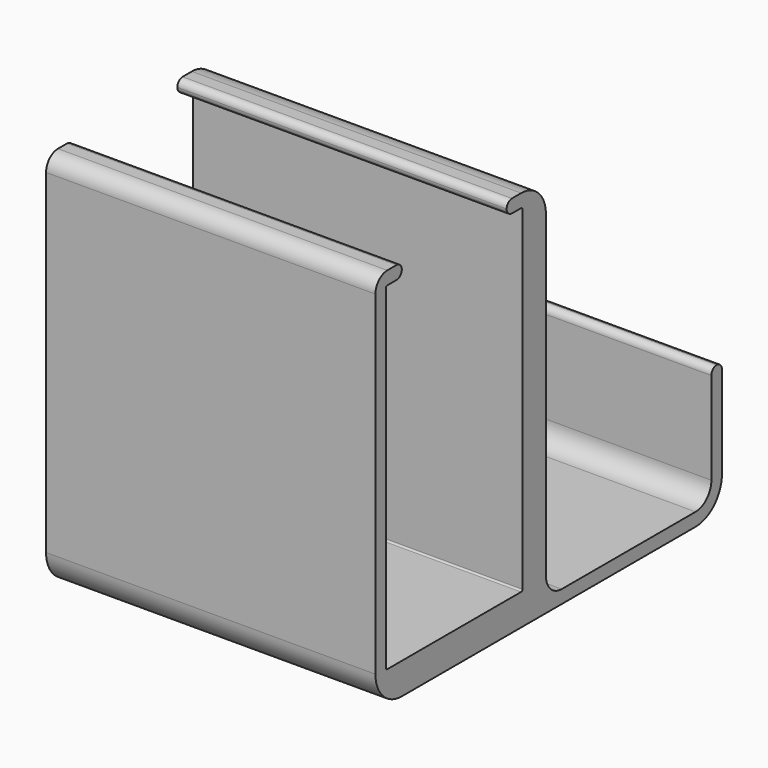
from build123d import *

# Parameters (mm, degrees)
F1_DEPTH = 50


with BuildPart() as f1:
    # F0 (on Right) → F1 (new body)
    with BuildSketch(Plane.YZ):
        with BuildLine():
            Line((-33.1, -0.25), (-33.35, -0.25))
            Line((-33.35, -0.25), (-33.35, 0))
            Line((-33.35, 0), (-33.35, 50.8))
            Line((-33.35, 50.8), (-33.35, 51.05))
            Line((-33.35, 51.05), (-33.1, 51.05))
            Line((-33.1, 51.05), (-31.35, 51.05))
            ThreePointArc((-31.35, 51.05), (-30.642893, 51.342893), (-30.35, 52.05))
            ThreePointArc((-30.35, 52.05), (-30.642893, 52.757107), (-31.35, 53.05))
            Line((-31.35, 53.05), (-33.1, 53.05))
            ThreePointArc((-33.1, 53.05), (-34.69099, 52.39099), (-35.35, 50.8))
            Line((-35.35, 50.8), (-35.35, 0))
            ThreePointArc((-35.35, 0), (-33.885534, -3.535534), (-30.35, -5))
            Line((-30.35, -5), (25.4, -5))
            ThreePointArc((25.4, -5), (28.935534, -3.535534), (30.4, 0))
            Line((30.4, 0), (30.4, 14))
            ThreePointArc((30.4, 14), (30.107107, 14.707107), (29.4, 15))
            ThreePointArc((29.4, 15), (28.692893, 14.707107), (28.4, 14))
            Line((28.4, 14), (28.4, 0))
            Line((28.4, 0), (28.4, -3))
            Line((28.4, -3), (25.4, -3))
            Line((25.4, -3), (0, -3))
            Line((0, -3), (-3, -3))
            Line((-3, -3), (-3, 0))
            Line((-3, 0), (-3, 48.35))
            ThreePointArc((-3, 48.35), (-4.376598, 51.673402), (-7.7, 53.05))
            Line((-7.7, 53.05), (-9.45, 53.05))
            ThreePointArc((-9.45, 53.05), (-10.157107, 52.757107), (-10.45, 52.05))
            ThreePointArc((-10.45, 52.05), (-10.157107, 51.342893), (-9.45, 51.05))
            Line((-9.45, 51.05), (-7.7, 51.05))
            Line((-7.7, 51.05), (-7.45, 51.05))
            Line((-7.45, 51.05), (-7.45, 50.8))
            Line((-7.45, 50.8), (-7.45, 0))
            Line((-7.45, 0), (-7.45, -0.25))
            Line((-7.45, -0.25), (-7.7, -0.25))
            Line((-7.7, -0.25), (-33.1, -0.25))
        make_face()
        with BuildLine():
            Line((-33.35, 51.05), (-33.35, 50.8))
            ThreePointArc((-33.35, 50.8), (-33.276777, 50.976777), (-33.1, 51.05))
            Line((-33.1, 51.05), (-33.35, 51.05))
        make_face()
        with BuildLine():
            ThreePointArc((-7.7, 51.05), (-7.523223, 50.976777), (-7.45, 50.8))
            Line((-7.45, 50.8), (-7.45, 51.05))
            Line((-7.45, 51.05), (-7.7, 51.05))
        make_face()
        with BuildLine():
            ThreePointArc((0, -3), (-2.12132, -2.12132), (-3, 0))
            Line((-3, 0), (-3, -3))
            Line((-3, -3), (0, -3))
        make_face()
        with BuildLine():
            ThreePointArc((-7.45, 0), (-7.523223, -0.176777), (-7.7, -0.25))
            Line((-7.7, -0.25), (-7.45, -0.25))
            Line((-7.45, -0.25), (-7.45, 0))
        make_face()
        with BuildLine():
            Line((-33.35, 0), (-33.35, -0.25))
            Line((-33.35, -0.25), (-33.1, -0.25))
            ThreePointArc((-33.1, -0.25), (-33.276777, -0.176777), (-33.35, 0))
        make_face()
        with BuildLine():
            ThreePointArc((28.4, 0), (27.52132, -2.12132), (25.4, -3))
            Line((25.4, -3), (28.4, -3))
            Line((28.4, -3), (28.4, 0))
        make_face()
    extrude(amount=-F1_DEPTH)


solid = f1.part
